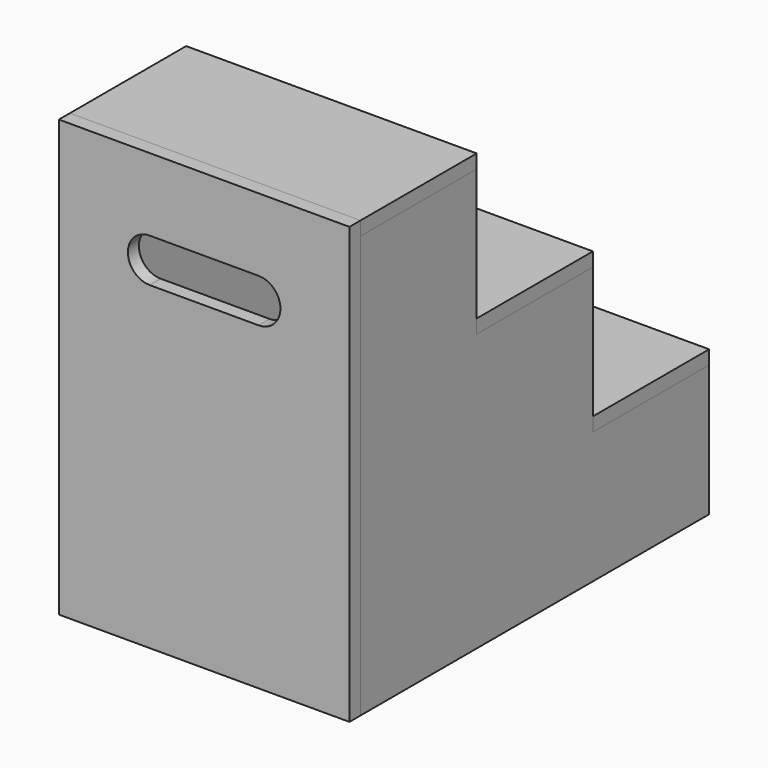
from build123d import *

# Parameters (mm, degrees)
F1_DEPTH  = 19
F0_W      = 200
F0_H      = 19
F2_DEPTH  = 400
F5_DEPTH  = 19
F6_W      = 400
F6_H      = 19
F6_H_2    = 581
F7_DEPTH  = 19
F9_W      = 362
F9_H      = 600
F10_DEPTH = 19
F11_W     = 600
F11_H     = 19
F12_DEPTH = 5
F13_W     = 600
F13_H     = 19
F14_DEPTH = 5
F15_DEPTH = 5
F16_DEPTH = 5
F17_W     = 150
F17_H     = 60
F18_DEPTH = 25


with BuildPart() as f1:
    # F0 (on Right) → F1 (new body)
    with BuildSketch(Plane.YZ):
        Polygon((-200, 785.2367818364), (-400, 785.2367818364), (-400, 204.2367818364), (200, 204.2367818364), (200, 385.2367818364), (0, 385.2367818364), (0, 404.2367818364), (0, 585.2367818364), (-200, 585.2367818364), (-200, 604.2367818364), align=None)
    extrude(amount=-F1_DEPTH)

    # F11 (on face) → F12 (cut)
    with BuildSketch(Plane(origin=(-19, 0, 0), x_dir=(0, -1, 0), z_dir=(-1, 0, 0))):
        with Locations((100, 333.7367818364)):
            Rectangle(F11_W, F11_H)
    extrude(amount=-F12_DEPTH, mode=Mode.SUBTRACT)


with BuildPart() as f2:
    # F0 (on Right) → F2 (new body)
    with BuildSketch(Plane.YZ):
        with Locations((-300, 794.7367818364)):
            Rectangle(F0_W, F0_H)
    extrude(amount=-F2_DEPTH)


with BuildPart() as f2b:
    # F0 (on Right) → F2, piece 2 (new body)
    with BuildSketch(Plane.YZ):
        with Locations((-100, 594.7367818364)):
            Rectangle(F0_W, F0_H)
    extrude(amount=-F2_DEPTH)


with BuildPart() as f2c:
    # F0 (on Right) → F2, piece 3 (new body)
    with BuildSketch(Plane.YZ):
        with Locations((100, 394.7367818364)):
            Rectangle(F0_W, F0_H)
    extrude(amount=-F2_DEPTH)


with BuildPart() as f5:
    # F4 (on offset) → F5 (new body)
    with BuildSketch(Plane.YZ.offset(-400)):
        Polygon((-200, 585.2367818364), (-200, 604.2367818364), (-200, 785.2367818364), (-400, 785.2367818364), (-400, 204.2367818364), (200, 204.2367818364), (200, 385.2367818364), (0, 385.2367818364), (0, 404.2367818364), (0, 585.2367818364), align=None)
    extrude(amount=F5_DEPTH)

    # F13 (on face) → F14 (cut)
    with BuildSketch(Plane.YZ.offset(-381)):
        with Locations((-100, 333.7367818364)):
            Rectangle(F13_W, F13_H)
    extrude(amount=-F14_DEPTH, mode=Mode.SUBTRACT)


with BuildPart() as f7:
    # F6 (on face) → F7 (new body)
    with BuildSketch(Plane.XZ.offset(400)):
        with Locations((-200, 794.7367818364)):
            Rectangle(F6_W, F6_H)
        with Locations((-200, 494.7367818364)):
            Rectangle(F6_W, F6_H_2)
    extrude(amount=F7_DEPTH)

    # F17 (on face) → F18 (cut)
    with BuildSketch(Plane.XZ.offset(419)):
        with Locations((-200, 674.2367818364)):
            Rectangle(F17_W, F17_H)
        with BuildLine():
            Line((-275, 644.2367818364), (-275, 704.2367818364))
            ThreePointArc((-275, 704.2367818364), (-304.9999995967, 674.2367818364), (-275, 644.2367818364))
        make_face()
        with BuildLine():
            ThreePointArc((-125, 644.2367818364), (-95, 674.2367818364), (-125, 704.2367818364))
            Line((-125, 704.2367818364), (-125, 644.2367818364))
        make_face()
    extrude(amount=-F18_DEPTH, mode=Mode.SUBTRACT)


with BuildPart() as f10:
    # F9 (on offset) → F10 (new body)
    with BuildSketch(Plane(origin=(0, 0, 324.2367818364), x_dir=(1, 0, 0), z_dir=(0, 0, -1))):
        with Locations((-200, 100)):
            Rectangle(F9_W, F9_H)
    extrude(amount=-F10_DEPTH)

    # F15 (add, through all): a face of the model
    f15_faces = [f5.part.faces().sort_by_distance(p)[0] for p in [
        (-386, -100, 333.7367818364),
    ]]
    extrude(f15_faces, amount=F15_DEPTH)

    # F16 (add, through all): a face of the model
    f16_faces = [f1.part.faces().sort_by_distance(p)[0] for p in [
        (-14, -100, 333.7367818364),
    ]]
    extrude(f16_faces, amount=F16_DEPTH)


solid = Compound([f1.part, f2.part, f2b.part, f2c.part, f5.part, f7.part, f10.part])
